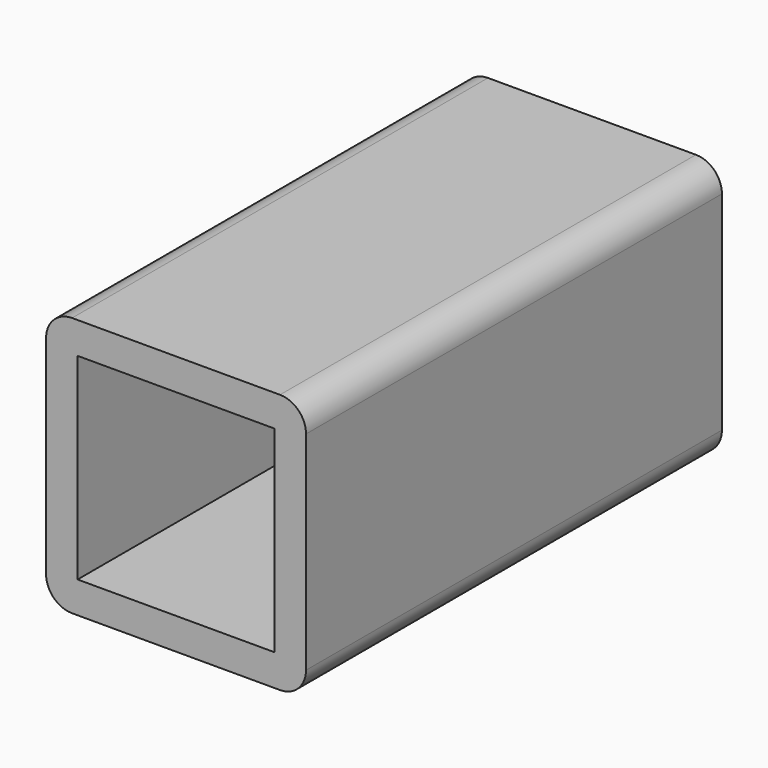
from build123d import *

# Parameters (mm, degrees)
F0_W     = 50.8
F0_H     = 50.8
F0_W_2   = 38.48
F0_H_2   = 38.48
F1_DEPTH = 101.6
F2_R     = 5.08


with BuildPart() as f1:
    # F0 (on Front) → F1 (new body)
    with BuildSketch(Plane.XZ):
        Rectangle(F0_W, F0_H)
        Rectangle(F0_W_2, F0_H_2, mode=Mode.SUBTRACT)
    extrude(amount=F1_DEPTH)

    # F2
    f2_edges = [f1.edges().sort_by_distance(p)[0] for p in [
        (-25.4, -50.8, 25.4),
        (-25.4, -50.8, -25.4),
        (25.4, -50.8, -25.4),
        (25.4, -50.8, 25.4),
    ]]
    fillet(f2_edges, radius=F2_R)


solid = f1.part
